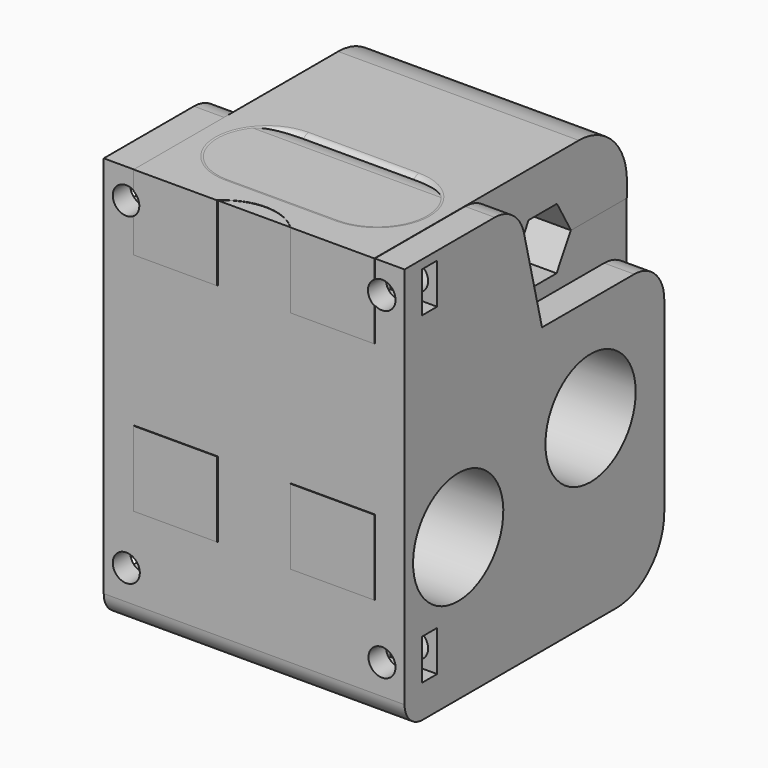
from build123d import *

# Parameters (mm, degrees)
CYLINDER078_R           = 7.5
CYLINDER078_DEPTH       = 180
CYLINDER078_PITCH_ANGLE = 90
CYLINDER090_R           = 7.5
CYLINDER090_DEPTH       = 180
CYLINDER090_PITCH_ANGLE = 90
CYLINDER099_R           = 1.8
CYLINDER099_DEPTH       = 34
CYLINDER099_ROLL_ANGLE  = 90
CYLINDER098_R           = 1.8
CYLINDER098_DEPTH       = 34
CYLINDER098_ROLL_ANGLE  = 90
CYLINDER101_R           = 1.8
CYLINDER101_DEPTH       = 34
CYLINDER101_ROLL_ANGLE  = 90
CYLINDER100_R           = 1.8
CYLINDER100_DEPTH       = 34
CYLINDER100_ROLL_ANGLE  = 90
BOX049_W                = 6.4
BOX049_H                = 2.5
BOX049_DEPTH            = 5.4
BOX050_W                = 6.4
BOX050_H                = 2.5
BOX050_DEPTH            = 5.4
BOX051_W                = 6.4
BOX051_H                = 2.5
BOX051_DEPTH            = 5.4
BOX052_W                = 6.4
BOX052_H                = 2.5
BOX052_DEPTH            = 5.4
BOX045_W                = 59
BOX045_H                = 21
BOX045_DEPTH            = 48
BOX044_W                = 3
BOX044_H                = 6
BOX044_DEPTH            = 23
CYLINDER095_R           = 1.4
CYLINDER095_DEPTH       = 10
CYLINDER095_ROLL_ANGLE  = 90
CYLINDER097_R           = 1.4
CYLINDER097_DEPTH       = 10
CYLINDER097_ROLL_ANGLE  = 90
CYLINDER094_R           = 5
CYLINDER094_DEPTH       = 5
CYLINDER094_ROLL_ANGLE  = 90
CYLINDER093_R           = 3
CYLINDER093_DEPTH       = 180
CYLINDER093_PITCH_ANGLE = 90
PAD050_DEPTH            = 10
PAD049_DEPTH            = 10
CYLINDER091_R           = 7.5
CYLINDER091_DEPTH       = 180
CYLINDER091_PITCH_ANGLE = 90
CYLINDER092_R           = 7
CYLINDER092_DEPTH       = 120
PAD048_DEPTH            = 10
PAD047_DEPTH            = 10
BOX043_W                = 32
BOX043_H                = 23
BOX043_DEPTH            = 22
FILLET029_R             = 5
FILLET030_R             = 8
FILLET031_R             = 8
FILLET032_R             = 3
FILLET033_R             = 1
FILLET034_R             = 1
FILLET035_R             = 1
FILLET036_R             = 1
CYLINDER096_R           = 5
CYLINDER096_DEPTH       = 5
CYLINDER096_ROLL_ANGLE  = 90
PAD052_DEPTH            = 40
FILLET041_R             = 3
FILLET042_R             = 8
FILLET043_R             = 5
FILLET044_R             = 5


with BuildPart() as m026:
    # Cylinder078 → Cylinder078 (new body)
    with BuildSketch(Plane.XY):
        Circle(CYLINDER078_R)
    extrude(amount=CYLINDER078_DEPTH)


with BuildPart() as m026_1:
    # Cylinder078 pitch: moved
    add(m026.part.rotate(Axis((0, 0, 0), (0, 1, 0)), CYLINDER078_PITCH_ANGLE))


with BuildPart() as m026_2:
    # Cylinder078 placement: moved
    add(m026_1.part.moved(Location((-8, 12, 80))))


with BuildPart() as m029:
    # Cylinder090 → Cylinder090 (new body)
    with BuildSketch(Plane.XY):
        Circle(CYLINDER090_R)
    extrude(amount=CYLINDER090_DEPTH)


with BuildPart() as m029_1:
    # Cylinder090 pitch: moved
    add(m029.part.rotate(Axis((0, 0, 0), (0, 1, 0)), CYLINDER090_PITCH_ANGLE))


with BuildPart() as m029_2:
    # Cylinder090 placement: moved
    add(m029_1.part.moved(Location((-9, -10, 75))))


with BuildPart() as cilindro055:
    # Cylinder099 → Cylinder099 (new body)
    with BuildSketch(Plane.XY):
        Circle(CYLINDER099_R)
    extrude(amount=CYLINDER099_DEPTH)


with BuildPart() as cilindro055_1:
    # Cylinder099 roll: moved
    add(cilindro055.part.rotate(Axis((0, 0, 0), (1, 0, 0)), CYLINDER099_ROLL_ANGLE))


with BuildPart() as cilindro055_2:
    # Cylinder099 placement: moved
    add(cilindro055_1.part.moved(Location((16, -10, 63))))


with BuildPart() as fusion050:
    # Cylinder098 → Cylinder098 (new body)
    with BuildSketch(Plane.XY):
        Circle(CYLINDER098_R)
    extrude(amount=CYLINDER098_DEPTH)


with BuildPart() as fusion050_1:
    # Cylinder098 roll: moved
    add(fusion050.part.rotate(Axis((0, 0, 0), (1, 0, 0)), CYLINDER098_ROLL_ANGLE))


with BuildPart() as fusion050_2:
    # Cylinder098 placement: moved
    add(fusion050_1.part.moved(Location((50, -10, 63))))

    # Fusion050: union Cilindro055
    add(cilindro055_2.part)


with BuildPart() as cilindro057:
    # Cylinder101 → Cylinder101 (new body)
    with BuildSketch(Plane.XY):
        Circle(CYLINDER101_R)
    extrude(amount=CYLINDER101_DEPTH)


with BuildPart() as cilindro057_1:
    # Cylinder101 roll: moved
    add(cilindro057.part.rotate(Axis((0, 0, 0), (1, 0, 0)), CYLINDER101_ROLL_ANGLE))


with BuildPart() as cilindro057_2:
    # Cylinder101 placement: moved
    add(cilindro057_1.part.moved(Location((16, -10, 63))))


with BuildPart() as fusion055:
    # Cylinder100 → Cylinder100 (new body)
    with BuildSketch(Plane.XY):
        Circle(CYLINDER100_R)
    extrude(amount=CYLINDER100_DEPTH)


with BuildPart() as fusion055_1:
    # Cylinder100 roll: moved
    add(fusion055.part.rotate(Axis((0, 0, 0), (1, 0, 0)), CYLINDER100_ROLL_ANGLE))


with BuildPart() as fusion055_2:
    # Cylinder100 placement: moved
    add(fusion055_1.part.moved(Location((50, -10, 63))))

    # Fusion051: union Cilindro057
    add(cilindro057_2.part)


with BuildPart() as fusion055_3:
    # Fusion051 placement: moved
    add(fusion055_2.part.moved(Location((0, 0, 43))))

    # Fusion055: union Fusion050
    add(fusion050_2.part)


with BuildPart() as cubo044:
    # Box049 → Box049 (new body)
    with BuildSketch(Plane(origin=(12.8, -23, 60.4), x_dir=(1, 0, 0), z_dir=(0, 0, 1))):
        with Locations((3.2, 1.25)):
            Rectangle(BOX049_W, BOX049_H)
    extrude(amount=BOX049_DEPTH)


with BuildPart() as fusion052:
    # Box050 → Box050 (new body)
    with BuildSketch(Plane(origin=(12.8, -23, 103.4), x_dir=(1, 0, 0), z_dir=(0, 0, 1))):
        with Locations((3.2, 1.25)):
            Rectangle(BOX050_W, BOX050_H)
    extrude(amount=BOX050_DEPTH)

    # Fusion052: union Cubo044
    add(cubo044.part)


with BuildPart() as cubo046:
    # Box051 → Box051 (new body)
    with BuildSketch(Plane(origin=(12.8, -23, 60.4), x_dir=(1, 0, 0), z_dir=(0, 0, 1))):
        with Locations((3.2, 1.25)):
            Rectangle(BOX051_W, BOX051_H)
    extrude(amount=BOX051_DEPTH)


with BuildPart() as fusion054:
    # Box052 → Box052 (new body)
    with BuildSketch(Plane(origin=(12.8, -23, 103.4), x_dir=(1, 0, 0), z_dir=(0, 0, 1))):
        with Locations((3.2, 1.25)):
            Rectangle(BOX052_W, BOX052_H)
    extrude(amount=BOX052_DEPTH)

    # Fusion053: union Cubo046
    add(cubo046.part)


with BuildPart() as fusion054_1:
    # Fusion053 placement: moved
    add(fusion054.part.moved(Location((34, 0, 0))))

    # Fusion054: union Fusion052
    add(fusion052.part)


with BuildPart() as fusion054_2:
    # Fusion054 placement: moved
    add(fusion054_1.part.moved(Location((0, 7, 0))))


with BuildPart() as cubo040:
    # Box045 → Box045 (new body)
    with BuildSketch(Plane(origin=(0, -40, 64), x_dir=(1, 0, 0), z_dir=(0, 0, 1))):
        with Locations((29.5, 10.5)):
            Rectangle(BOX045_W, BOX045_H)
    extrude(amount=BOX045_DEPTH)


with BuildPart() as cubo039:
    # Box044 → Box044 (new body)
    with BuildSketch(Plane(origin=(17, -11, 79), x_dir=(1, 0, 0), z_dir=(0, 0, 1))):
        with Locations((1.5, 3)):
            Rectangle(BOX044_W, BOX044_H)
    extrude(amount=BOX044_DEPTH)


with BuildPart() as cilindro051:
    # Cylinder095 → Cylinder095 (new body)
    with BuildSketch(Plane.XY):
        Circle(CYLINDER095_R)
    extrude(amount=CYLINDER095_DEPTH)


with BuildPart() as cilindro051_1:
    # Cylinder095 roll: moved
    add(cilindro051.part.rotate(Axis((0, 0, 0), (1, 0, 0)), CYLINDER095_ROLL_ANGLE))


with BuildPart() as cilindro051_2:
    # Cylinder095 placement: moved
    add(cilindro051_1.part.moved(Location((33, -27, 105))))


with BuildPart() as cilindro053:
    # Cylinder097 → Cylinder097 (new body)
    with BuildSketch(Plane.XY):
        Circle(CYLINDER097_R)
    extrude(amount=CYLINDER097_DEPTH)


with BuildPart() as cilindro053_1:
    # Cylinder097 roll: moved
    add(cilindro053.part.rotate(Axis((0, 0, 0), (1, 0, 0)), CYLINDER097_ROLL_ANGLE))


with BuildPart() as cilindro053_2:
    # Cylinder097 placement: moved
    add(cilindro053_1.part.moved(Location((33, -27, 75))))


with BuildPart() as cilindro050:
    # Cylinder094 → Cylinder094 (new body)
    with BuildSketch(Plane.XY):
        Circle(CYLINDER094_R)
    extrude(amount=CYLINDER094_DEPTH)


with BuildPart() as cilindro050_1:
    # Cylinder094 roll: moved
    add(cilindro050.part.rotate(Axis((0, 0, 0), (1, 0, 0)), CYLINDER094_ROLL_ANGLE))


with BuildPart() as cilindro050_2:
    # Cylinder094 placement: moved
    add(cilindro050_1.part.moved(Location((33, -31, 105))))


with BuildPart() as m031:
    # Cylinder093 → Cylinder093 (new body)
    with BuildSketch(Plane.XY):
        Circle(CYLINDER093_R)
    extrude(amount=CYLINDER093_DEPTH)


with BuildPart() as m031_1:
    # Cylinder093 pitch: moved
    add(m031.part.rotate(Axis((0, 0, 0), (0, 1, 0)), CYLINDER093_PITCH_ANGLE))


with BuildPart() as m031_2:
    # Cylinder093 placement: moved
    add(m031_1.part.moved(Location((-12, 9, 100))))


with BuildPart() as pad050:
    # Sketch057 → Pad050 (new body)
    with BuildSketch(Plane(origin=(43, 9, 0), x_dir=(0, 1, 0), z_dir=(1, 0, 0))):
        Polygon((-4.713422, 99.981385), (-2.357765, 95.901267), (2.35355, 95.901267), (4.709208, 99.981385), (2.35355, 104.061504), (-2.357765, 104.061504), align=None)
    extrude(amount=PAD050_DEPTH)


with BuildPart() as pad049:
    # Sketch056 → Pad049 (new body)
    with BuildSketch(Plane(origin=(13, 9, 0), x_dir=(0, 1, 0), z_dir=(1, 0, 0))):
        Polygon((-4.713422, 99.981385), (-2.357765, 95.901267), (2.35355, 95.901267), (4.709208, 99.981385), (2.35355, 104.061504), (-2.357765, 104.061504), align=None)
    extrude(amount=PAD049_DEPTH)


with BuildPart() as m030:
    # Cylinder091 → Cylinder091 (new body)
    with BuildSketch(Plane.XY):
        Circle(CYLINDER091_R)
    extrude(amount=CYLINDER091_DEPTH)


with BuildPart() as m030_1:
    # Cylinder091 pitch: moved
    add(m030.part.rotate(Axis((0, 0, 0), (0, 1, 0)), CYLINDER091_PITCH_ANGLE))


with BuildPart() as m030_2:
    # Cylinder091 placement: moved
    add(m030_1.part.moved(Location((-12, 12, 80))))


with BuildPart() as cilindro049:
    # Cylinder092 → Cylinder092 (new body)
    with BuildSketch(Plane(origin=(33, -24, 41), x_dir=(1, 0, 0), z_dir=(0, 0, 1))):
        Circle(CYLINDER092_R)
    extrude(amount=CYLINDER092_DEPTH)


with BuildPart() as pad048:
    # Sketch055 → Pad048 (new body)
    with BuildSketch(Plane.XY.offset(100)):
        Polygon((23.049006, -25.471541), (25.637042, -30.500033), (30.141413, -33.919727), (35.796642, -33.874552), (40.245807, -30.383337), (43.049006, -25.471541), (49.049006, -25.471541), (49.049006, 22.988138), (17.049006, 22.988138), (17.049006, -25.471541), align=None)
        with BuildLine():
            ThreePointArc((26.014116, -2.124694), (20.116872, -8.021937), (26.014116, -13.919181))
            Line((26.014116, -13.919181), (40.6833, -13.919181))
            ThreePointArc((40.6833, -13.919181), (46.580544, -8.021937), (40.6833, -2.124694))
            Line((26.014116, -2.124694), (40.6833, -2.124694))
        make_face(mode=Mode.SUBTRACT)
    extrude(amount=PAD048_DEPTH)


with BuildPart() as pad047:
    # Sketch054 → Pad047 (new body)
    with BuildSketch(Plane.XY.offset(70)):
        Polygon((23.049006, -25.471541), (25.637042, -30.500033), (30.141413, -33.919727), (35.796642, -33.874552), (40.245807, -30.383337), (43.049006, -25.471541), (49.049006, -25.471541), (49.049006, 22.988138), (17.049006, 22.988138), (17.049006, -25.471541), align=None)
        with BuildLine():
            ThreePointArc((26.014116, -2.124694), (20.116872, -8.021937), (26.014116, -13.919181))
            Line((26.014116, -13.919181), (40.6833, -13.919181))
            ThreePointArc((40.6833, -13.919181), (46.580544, -8.021937), (40.6833, -2.124694))
            Line((26.014116, -2.124694), (40.6833, -2.124694))
        make_face(mode=Mode.SUBTRACT)
    extrude(amount=PAD047_DEPTH)


with BuildPart() as fillet036:
    # Box043 → Box043 (new body)
    with BuildSketch(Plane(origin=(17, 0, 79), x_dir=(1, 0, 0), z_dir=(0, 0, 1))):
        with Locations((16, 11.5)):
            Rectangle(BOX043_W, BOX043_H)
    extrude(amount=BOX043_DEPTH)

    # Fusion046: union Pad048, Pad047
    add(pad048.part)
    add(pad047.part)

    # Cut113: cut Cilindro049
    add(cilindro049.part, mode=Mode.SUBTRACT)

    # Cut114: cut M030
    add(m030_2.part, mode=Mode.SUBTRACT)

    # Fillet029
    fillet029_edges = [fillet036.edges().sort_by_distance(p)[0] for p in [
        (33.348708, -2.124694, 100),
    ]]
    fillet(fillet029_edges, radius=FILLET029_R)

    # Fillet030
    fillet030_edges = [fillet036.edges().sort_by_distance(p)[0] for p in [
        (33.049006, 22.988138, 110),
    ]]
    fillet(fillet030_edges, radius=FILLET030_R)

    # Fillet031
    fillet031_edges = [fillet036.edges().sort_by_distance(p)[0] for p in [
        (33.049006, 22.988138, 70),
    ]]
    fillet(fillet031_edges, radius=FILLET031_R)

    # Fillet032
    fillet032_edges = [fillet036.edges().sort_by_distance(p)[0] for p in [
        (17.049006, -25.471541, 75),
        (49.049006, -25.471541, 75),
        (17.049006, -25.471541, 105),
        (49.049006, -25.471541, 105),
    ]]
    fillet(fillet032_edges, radius=FILLET032_R)

    # Fillet033
    fillet033_edges = [fillet036.edges().sort_by_distance(p)[0] for p in [
        (20.116872, -8.021937, 110),
    ]]
    fillet(fillet033_edges, radius=FILLET033_R)

    # Fillet034
    fillet034_edges = [fillet036.edges().sort_by_distance(p)[0] for p in [
        (46.580544, -8.021937, 80),
    ]]
    fillet(fillet034_edges, radius=FILLET034_R)

    # Fillet035
    fillet035_edges = [fillet036.edges().sort_by_distance(p)[0] for p in [
        (46.580544, -8.021937, 70),
    ]]
    fillet(fillet035_edges, radius=FILLET035_R)

    # Cut115: cut Pad049
    add(pad049.part, mode=Mode.SUBTRACT)

    # Cut116: cut Pad050
    add(pad050.part, mode=Mode.SUBTRACT)

    # Cut117: cut M031
    add(m031_2.part, mode=Mode.SUBTRACT)

    # Fillet036
    fillet036_edges = [fillet036.edges().sort_by_distance(p)[0] for p in [
        (33.024503, 0, 80),
    ]]
    fillet(fillet036_edges, radius=FILLET036_R)


with BuildPart() as fusion048:
    # Cylinder096 → Cylinder096 (new body)
    with BuildSketch(Plane.XY):
        Circle(CYLINDER096_R)
    extrude(amount=CYLINDER096_DEPTH)


with BuildPart() as fusion048_1:
    # Cylinder096 roll: moved
    add(fusion048.part.rotate(Axis((0, 0, 0), (1, 0, 0)), CYLINDER096_ROLL_ANGLE))


with BuildPart() as fusion048_2:
    # Cylinder096 placement: moved
    add(fusion048_1.part.moved(Location((33, -31, 75))))

    # Fusion047: union Cilindro050, Fillet036
    add(cilindro050_2.part)
    add(fillet036.part)

    # Cut118: cut Cilindro053
    add(cilindro053_2.part, mode=Mode.SUBTRACT)

    # Cut119: cut Cilindro051
    add(cilindro051_2.part, mode=Mode.SUBTRACT)

    # Fusion048: union Cubo039
    add(cubo039.part)


with BuildPart() as obj1:
    # Sketch059 → Pad052 (new body)
    with BuildSketch(Plane.YZ.offset(13)):
        Polygon((24.25286, 93.889427), (24.25286, 56.014507), (-18.913932, 56.014507), (-18.913932, 109.960938), (0, 109.960938), (3.931488, 93.889427), align=None)
    extrude(amount=PAD052_DEPTH)

    # Fillet041
    fillet041_edges = [obj1.edges().sort_by_distance(p)[0] for p in [
        (33, -18.913932, 56.014507),
    ]]
    fillet(fillet041_edges, radius=FILLET041_R)

    # Fillet042
    fillet042_edges = [obj1.edges().sort_by_distance(p)[0] for p in [
        (33, 24.25286, 56.014507),
    ]]
    fillet(fillet042_edges, radius=FILLET042_R)

    # Fillet043
    fillet043_edges = [obj1.edges().sort_by_distance(p)[0] for p in [
        (33, 24.25286, 93.889427),
    ]]
    fillet(fillet043_edges, radius=FILLET043_R)

    # Fillet044
    fillet044_edges = [obj1.edges().sort_by_distance(p)[0] for p in [
        (33, 0, 109.960938),
    ]]
    fillet(fillet044_edges, radius=FILLET044_R)

    # Fusion049: union Fusion048
    add(fusion048_2.part)

    # Cut120: cut Cubo040
    add(cubo040.part, mode=Mode.SUBTRACT)

    # Cut123: cut Fusion054
    add(fusion054_2.part, mode=Mode.SUBTRACT)

    # Cut124: cut Fusion055
    add(fusion055_3.part, mode=Mode.SUBTRACT)

    # Cut136: cut M029
    add(m029_2.part, mode=Mode.SUBTRACT)

    # Cut137: cut M026
    add(m026_2.part, mode=Mode.SUBTRACT)


solid = obj1.part
